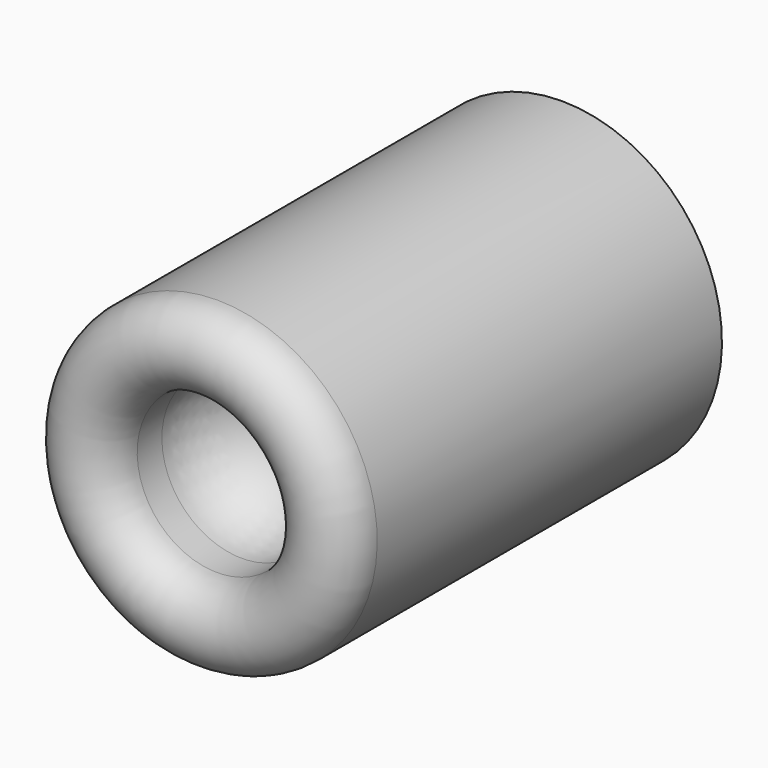
from build123d import *


with BuildPart() as f1:
    # F0 (on Right) → F1 (revolve)
    with BuildSketch(Plane.YZ):
        with BuildLine():
            ThreePointArc((-5.176464, 1.397), (-4.68255, 1.601586), (-4.477964, 2.0955))
            ThreePointArc((-4.477964, 2.0955), (-4.68255, 2.589414), (-5.176464, 2.794))
            ThreePointArc((-5.176464, 2.794), (-5.874964, 2.0955), (-5.176464, 1.397))
        make_face()
        with BuildLine():
            ThreePointArc((-5.176464, 2.794), (-4.68255, 2.589414), (-4.477964, 2.0955))
            ThreePointArc((-4.477964, 2.0955), (-4.68255, 1.601586), (-5.176464, 1.397))
            Line((-5.176464, 1.397), (-4.637572, 1.397))
            ThreePointArc((-4.637572, 1.397), (-3.649744, 0.987828), (-3.240572, 0))
            Line((-3.240572, 0), (2.347428, 0))
            Line((2.347428, 0), (2.347428, 2.794))
            Line((2.347428, 2.794), (-5.176464, 2.794))
        make_face()
    revolve(axis=Axis((0, -1.056931, 0), (0, 1, 0)))


solid = f1.part
